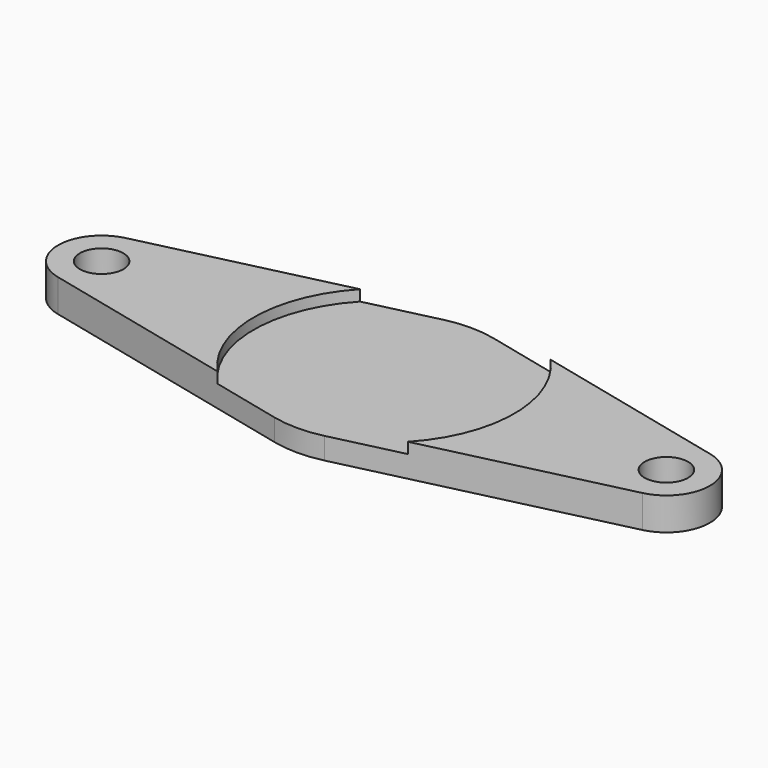
from build123d import *

# Parameters (mm, degrees)
F0_R     = 1
F1_DEPTH = 1.5
F2_R     = 6
F3_DEPTH = 0.5


with BuildPart() as f1:
    # F0 (on Top) → F1 (new body)
    with BuildSketch(Plane.XY):
        with BuildLine():
            Line((13.461538, 1.946017), (1.153846, 4.865043))
            ThreePointArc((1.153846, 4.865043), (0, 5), (-1.153846, 4.865043))
            Line((-1.153846, 4.865043), (-13.461538, 1.946017))
            ThreePointArc((-13.461538, 1.946017), (-15, 0), (-13.461538, -1.946017))
            Line((-13.461538, -1.946017), (-1.153846, -4.865043))
            ThreePointArc((-1.153846, -4.865043), (0, -5), (1.153846, -4.865043))
            Line((1.153846, -4.865043), (13.461538, -1.946017))
            ThreePointArc((13.461538, -1.946017), (15, 0), (13.461538, 1.946017))
        make_face()
        with Locations((-13, 0)):
            Circle(F0_R, mode=Mode.SUBTRACT)
        with Locations((13, 0)):
            Circle(F0_R, mode=Mode.SUBTRACT)
    extrude(amount=F1_DEPTH)

    # F2 (on face) → F3 (cut)
    with BuildSketch(Plane.XY.offset(1.5)):
        Circle(F2_R)
    extrude(amount=-F3_DEPTH, mode=Mode.SUBTRACT)


solid = f1.part
